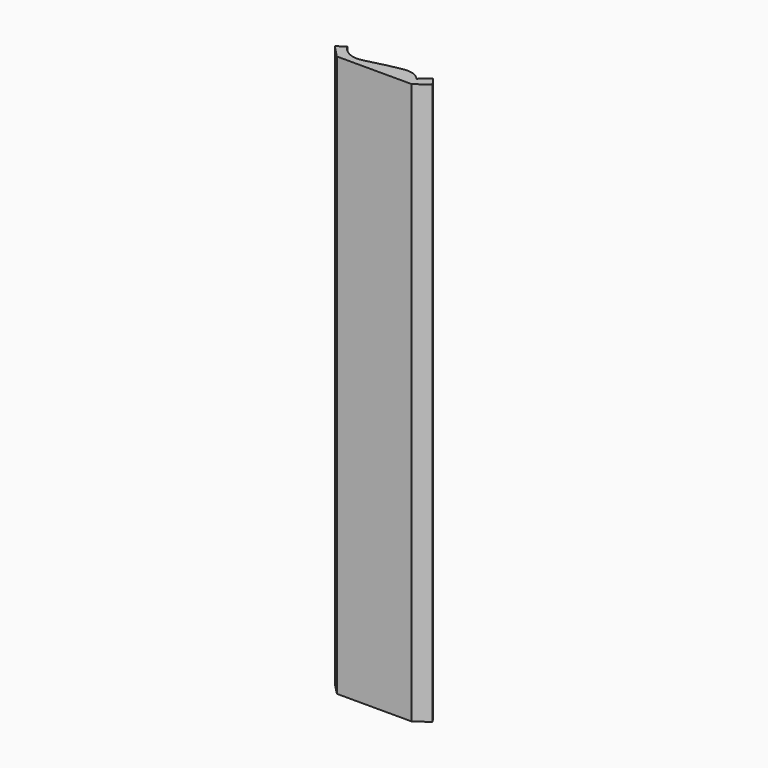
from build123d import *

# Parameters (mm, degrees)
F1_DEPTH = 609.6


with BuildPart() as f1:
    # F0 (on Top) → F1 (new body)
    with BuildSketch(Plane.XY):
        with BuildLine():
            Line((-13.314313, 13.787375), (0, 0))
            Line((0, 0), (81.28, 0))
            Line((81.28, 0), (95.651687, 10.441642))
            Line((95.651687, 10.441642), (88.843723, 19.812))
            Line((88.843723, 19.812), (78.395705, 10.16))
            ThreePointArc((78.395705, 10.16), (71.810031, 15.310411), (63.653308, 17.145))
            add(Edge.make_bspline(
                [(20.882963, 8.157931), (28.513048, 9.843092), (53.867209, 17.145), (63.653308, 17.145)],
                knots=[0, 0, 0, 0, 43.704346, 43.704346, 43.704346, 43.704346], degree=3))
            ThreePointArc((20.882963, 8.157931), (6.341194, 9.738896), (-4.265176, 19.812))
            Line((-4.265176, 19.812), (-13.314313, 13.787375))
        make_face()
    extrude(amount=F1_DEPTH)


solid = f1.part
